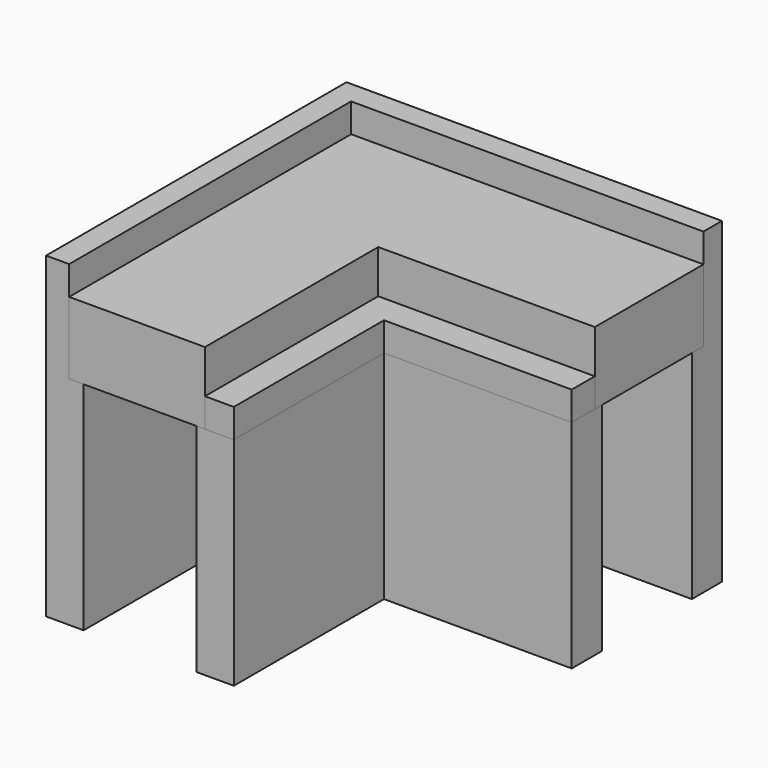
from build123d import *

# Parameters (mm, degrees)
F1_DEPTH = 15
F2_DEPTH = 7
F3_DEPTH = 5
F4_DEPTH = 2


with BuildPart() as f1:
    # F0 (on Top) → F1 (new body)
    with BuildSketch(Plane.XY):
        Polygon((-11.4, -13), (-10.4, -13), (-10.4, 0), (-10.4, 10.4), (0, 10.4), (13, 10.4), (13, 11.4), (0, 11.4), (-11.4, 11.4), (-11.4, 0), align=None)
        Polygon((-13, -13), (-11.4, -13), (-11.4, 0), (-11.4, 11.4), (0, 11.4), (13, 11.4), (13, 13), (0, 13), (-13, 13), (-13, 0), align=None)
        Polygon((-2.6, -13), (-2, -13), (-2, 2), (13, 2), (13, 2.6), (-2.6, 2.6), align=None)
        Polygon((-2, -13), (0, -13), (0, 0), (13, 0), (13, 2), (-2, 2), align=None)
    extrude(amount=-F1_DEPTH)

    # F0 (on Top) → F2 (join)
    with BuildSketch(Plane.XY):
        Polygon((-13, -13), (-11.4, -13), (-11.4, 0), (-11.4, 11.4), (0, 11.4), (13, 11.4), (13, 13), (0, 13), (-13, 13), (-13, 0), align=None)
    extrude(amount=F2_DEPTH)


with BuildPart() as f3:
    # F0 (on Top) → F3 (new body)
    with BuildSketch(Plane.XY):
        Polygon((-11.4, -13), (-10.4, -13), (-10.4, 0), (-10.4, 10.4), (0, 10.4), (13, 10.4), (13, 11.4), (0, 11.4), (-11.4, 11.4), (-11.4, 0), align=None)
        Polygon((-10.4, -13), (-2.6, -13), (-2.6, 2.6), (13, 2.6), (13, 10.4), (0, 10.4), (-10.4, 10.4), (-10.4, 0), align=None)
        Polygon((-2.6, -13), (-2, -13), (-2, 2), (13, 2), (13, 2.6), (-2.6, 2.6), align=None)
    extrude(amount=F3_DEPTH)


with BuildPart() as f4:
    # F0 (on Top) → F4 (new body)
    with BuildSketch(Plane.XY):
        Polygon((-2, -13), (0, -13), (0, 0), (13, 0), (13, 2), (-2, 2), align=None)
    extrude(amount=F4_DEPTH)


solid = Compound([f1.part, f3.part, f4.part])
